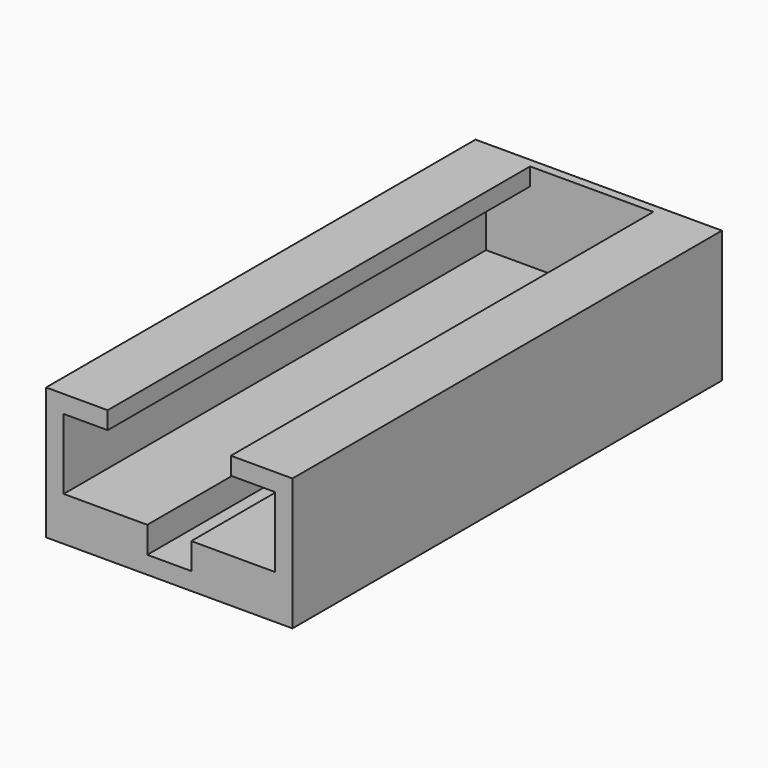
from build123d import *

# Parameters (mm, degrees)
F1_DEPTH = 77.47
F2_DEPTH = 1.27


with BuildPart() as f1:
    # F0 (on Front) → F1 (new body)
    with BuildSketch(Plane.XZ):
        Polygon((-70.803093, -22.537928), (-70.803093, -28.887928), (-35.243093, -28.887928), (-35.243093, -22.537928), (-35.243093, -9.837928), (-44.133093, -9.837928), (-44.133093, -12.377928), (-37.783093, -12.377928), (-37.783093, -22.537928), (-49.848093, -22.537928), (-49.848093, -26.348745), (-56.198093, -26.348745), (-56.198093, -22.537928), (-68.263093, -22.537928), (-68.263093, -12.377928), (-61.913093, -12.377928), (-61.913093, -9.837928), (-70.803093, -9.837928), align=None)
    extrude(amount=F1_DEPTH)

    # F0 (on Front) → F2 (join)
    with BuildSketch(Plane.XZ):
        Polygon((-70.803093, -22.537928), (-70.803093, -28.887928), (-35.243093, -28.887928), (-35.243093, -22.537928), (-35.243093, -9.837928), (-44.133093, -9.837928), (-44.133093, -12.377928), (-37.783093, -12.377928), (-37.783093, -22.537928), (-49.848093, -22.537928), (-49.848093, -26.348745), (-56.198093, -26.348745), (-56.198093, -22.537928), (-68.263093, -22.537928), (-68.263093, -12.377928), (-61.913093, -12.377928), (-61.913093, -9.837928), (-70.803093, -9.837928), align=None)
        Polygon((-44.133093, -9.837928), (-61.913093, -9.837928), (-61.913093, -12.377928), (-68.263093, -12.377928), (-68.263093, -22.537928), (-56.198093, -22.537928), (-56.198093, -26.348745), (-49.848093, -26.348745), (-49.848093, -22.537928), (-37.783093, -22.537928), (-37.783093, -12.377928), (-44.133093, -12.377928), align=None)
    extrude(amount=F2_DEPTH)


solid = f1.part
